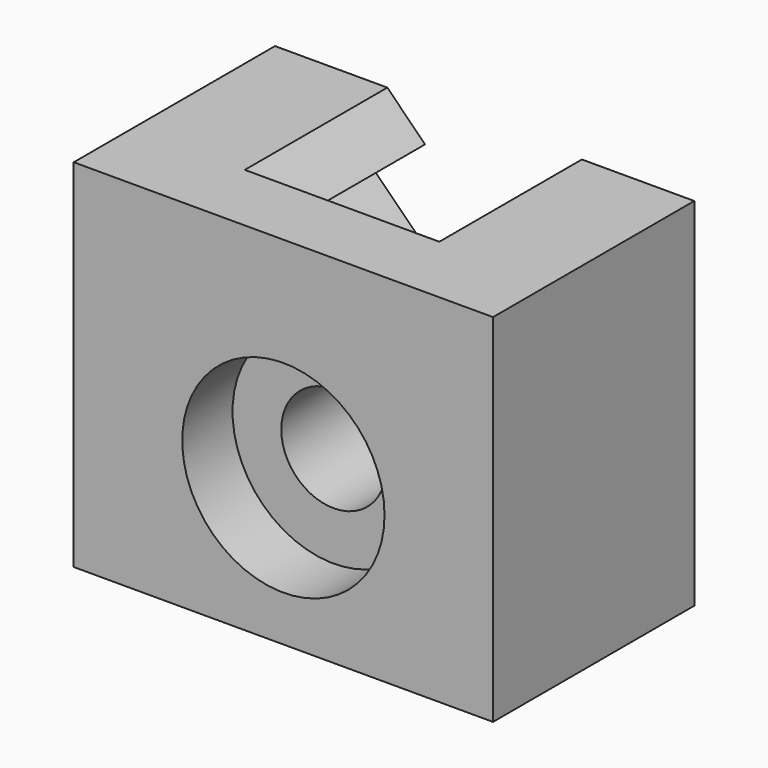
from build123d import *

# Parameters (mm, degrees)
F1_DEPTH       = 12
F2_DEPTH       = 8.5
F4_D           = 5
F4_CBORE_D     = 9.65
F4_CBORE_DEPTH = 3


with BuildPart() as f1:
    # F0 (on Front) → F1 (new body)
    with BuildSketch(Plane.XZ):
        Polygon((-10, 10), (-10, -7), (10, -7), (10, 10), (4.64, 10), (2.84, 8.2), (5.49934, 8.2), (5.49934, 6.56), (2.84, 3.90066), (-2.84, 3.90066), (-5.49934, 6.56), (-5.49934, 8.2), (-2.84, 8.2), (-4.64, 10), align=None)
        Polygon((4.64, 10), (-4.64, 10), (-2.84, 8.2), (-5.49934, 8.2), (-5.49934, 6.56), (-2.84, 3.90066), (2.84, 3.90066), (5.49934, 6.56), (5.49934, 8.2), (2.84, 8.2), align=None)
    extrude(amount=F1_DEPTH)

    # F0 (on Front) → F2 (cut)
    with BuildSketch(Plane.XZ):
        Polygon((4.64, 10), (-4.64, 10), (-2.84, 8.2), (-5.49934, 8.2), (-5.49934, 6.56), (-2.84, 3.90066), (2.84, 3.90066), (5.49934, 6.56), (5.49934, 8.2), (2.84, 8.2), align=None)
    extrude(amount=F2_DEPTH, mode=Mode.SUBTRACT)

    # F4 (through all)
    with Locations(Plane.XZ.offset(12)):
        with Locations((0, 0)):
            CounterBoreHole(F4_D / 2, F4_CBORE_D / 2, F4_CBORE_DEPTH)


solid = f1.part
